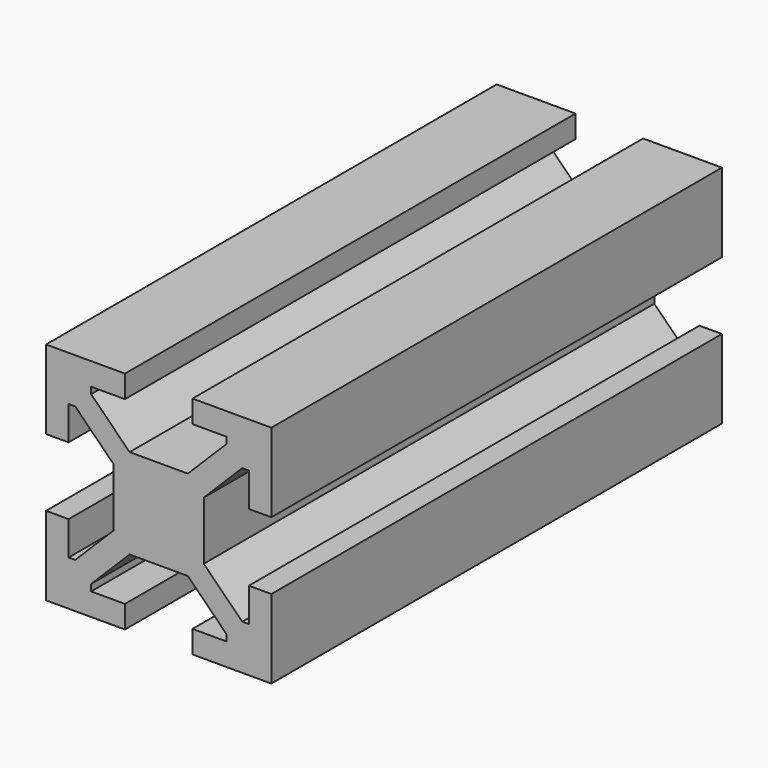
from build123d import *

# Parameters (mm, degrees)
F1_DEPTH = 50


with BuildPart() as f1:
    # F0 (on Front) → F1 (new body)
    with BuildSketch(Plane.XZ):
        Polygon((0, 0), (0, 4), (-2.585786, 4), (-6, 7.414214), (-6, 8), (-3, 8), (-3, 10), (-10, 10), (-10, 3), (-8, 3), (-8, 6), (-7.414214, 6), (-4, 2.585786), (-4, 0), align=None)
    extrude(amount=-F1_DEPTH)

    # F2: F1 across face


with BuildPart() as f1_1:
    add(f1.part)
    add(f1.part.mirror(Plane(origin=(0, 25, 2), x_dir=(0, 1, 0), z_dir=(1, 0, 0))))

    # F3: F1 across face


with BuildPart() as f1_2:
    add(f1_1.part)
    add(f1_1.part.mirror(Plane(origin=(0, 25, 0), x_dir=(1, 0, 0), z_dir=(0, 0, -1))))


solid = f1_2.part
